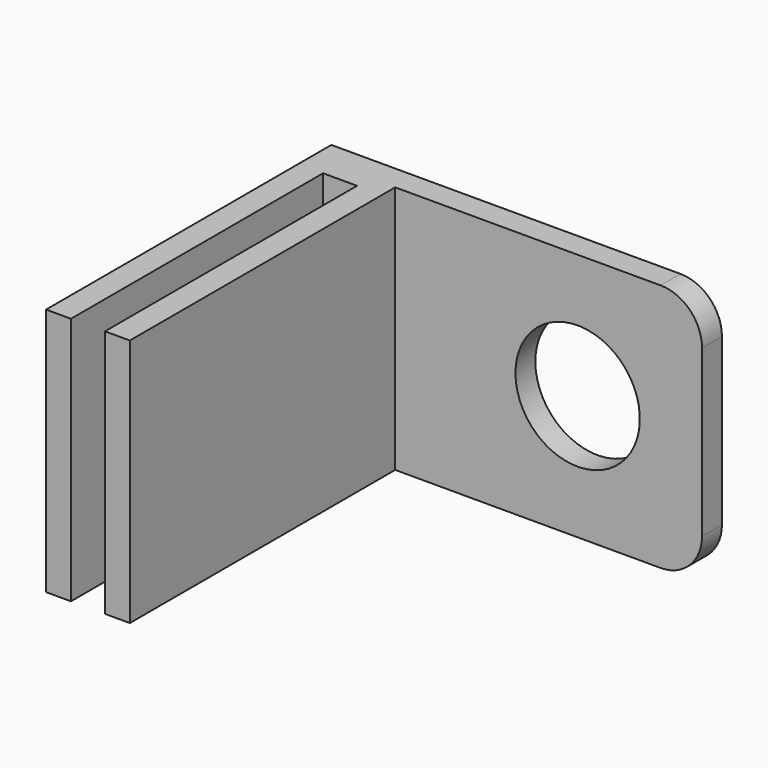
from build123d import *

# Parameters (mm, degrees)
PAD_DEPTH    = 30
SKETCH001_R  = 7.5
POCKET_DEPTH = 5
FILLET_R     = 5


with BuildPart() as part:
    # Sketch → Pad (new body)
    with BuildSketch(Plane.XY):
        Polygon((0, 0), (0, 43), (47.1, 43), (47.1, 40), (10.1, 40), (10.1, 0), (7.1, 0), (7.1, 38), (3, 38), (3, 0), align=None)
    extrude(amount=PAD_DEPTH)

    # Sketch001 (on Face2 of Pad) → Pocket (cut)
    with BuildSketch(Plane(origin=(0, 43, 0), x_dir=(-1, 0, 0), z_dir=(0, 1, 0))):
        with Locations((-32.1, 15)):
            Circle(SKETCH001_R)
    extrude(amount=-POCKET_DEPTH, mode=Mode.SUBTRACT)

    # Fillet
    fillet_edges = [part.edges().sort_by_distance(p)[0] for p in [
        (47.1, 41.5, 0),
        (47.1, 41.5, 30),
    ]]
    fillet(fillet_edges, radius=FILLET_R)


solid = part.part
